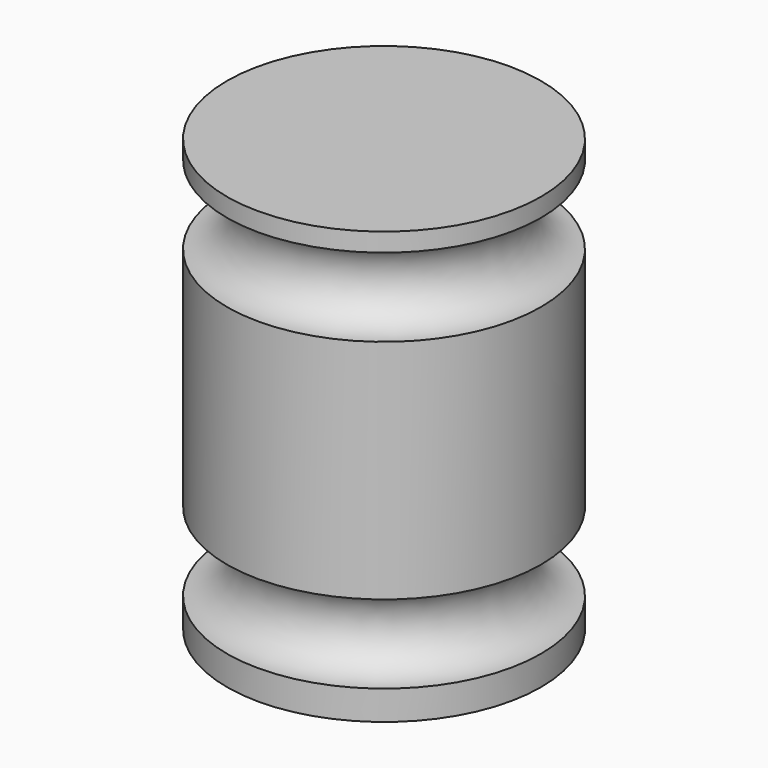
from build123d import *


with BuildPart() as f1:
    # F0 (on Front) → F1 (revolve)
    with BuildSketch(Plane.XZ):
        with BuildLine():
            Line((0, 69.85), (0, 0))
            Line((0, 0), (25.4, 0))
            Line((25.4, 0), (25.4, 4.753853))
            ThreePointArc((25.4, 4.753853), (19.05, 11.103853), (25.4, 17.453853))
            Line((25.4, 17.453853), (25.4, 54.150428))
            ThreePointArc((25.4, 54.150428), (19.05, 60.500428), (25.4, 66.850428))
            Line((25.4, 66.850428), (25.4, 69.85))
            Line((25.4, 69.85), (0, 69.85))
        make_face()
    revolve(axis=Axis((0, 0, 34.925), (0, 0, 1)))


solid = f1.part
